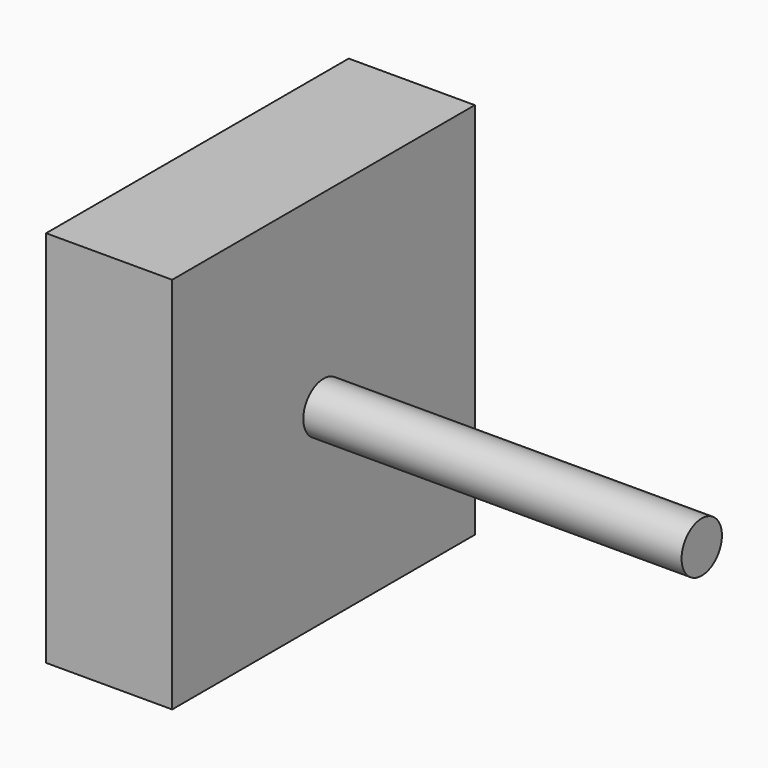
from build123d import *

# Parameters (mm, degrees)
F0_W     = 15
F0_H     = 15
F0_R     = 1
F1_DEPTH = 5
F2_DEPTH = 20


with BuildPart() as f1:
    # F0 (on Right) → F1 (new body)
    with BuildSketch(Plane.YZ):
        Rectangle(F0_W, F0_H)
        Circle(F0_R, mode=Mode.SUBTRACT)
    extrude(amount=F1_DEPTH)

    # F0 (on Right) → F2 (join)
    with BuildSketch(Plane.YZ):
        Circle(F0_R)
    extrude(amount=F2_DEPTH)


solid = f1.part
